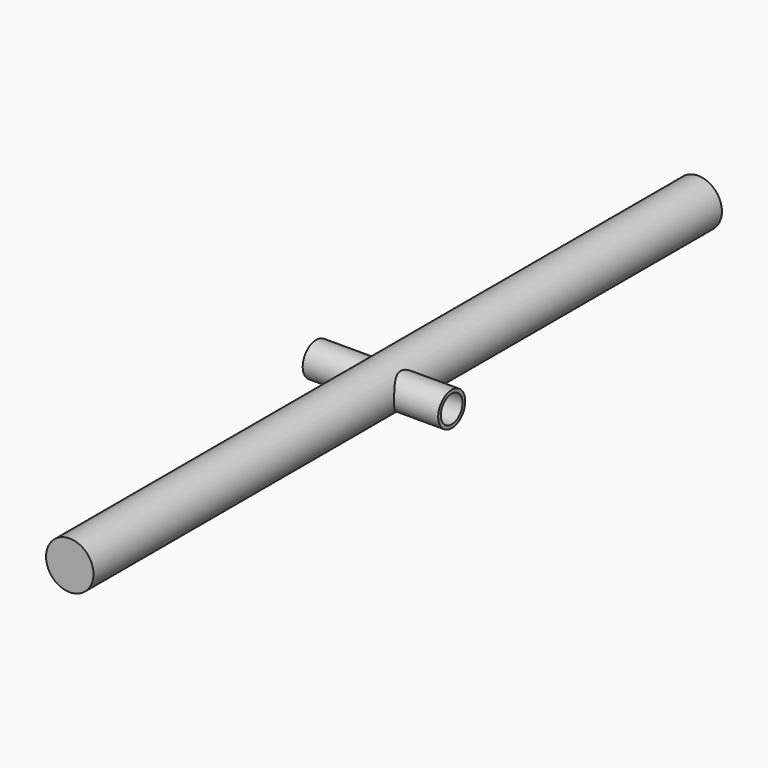
from build123d import *

# Parameters (mm, degrees)
F0_R          = 44.45
F1_DEPTH      = 25.4
F2_DEPTH      = 1473.2
F3_R          = 31.75
F3_R_2        = 25.4
F4_DEPTH      = 127
F4_DEPTH_BACK = 127


with BuildPart() as f1:
    # F0 (on Front) → F1 (new body)
    with BuildSketch(Plane.XZ):
        Circle(F0_R)
    extrude(amount=F1_DEPTH)

    # F0 (on Front) → F2 (join)
    with BuildSketch(Plane.XZ):
        Circle(F0_R)
    extrude(amount=F2_DEPTH)

    # F3 (on Right) → F4 (join, two sides)
    with BuildSketch(Plane.YZ) as f4_sk:
        with Locations((-736.6, 0)):
            Circle(F3_R)
        with Locations((-736.6, 0)):
            Circle(F3_R_2, mode=Mode.SUBTRACT)
    extrude(amount=F4_DEPTH)
    extrude(f4_sk.sketch, amount=-F4_DEPTH_BACK)


solid = f1.part
